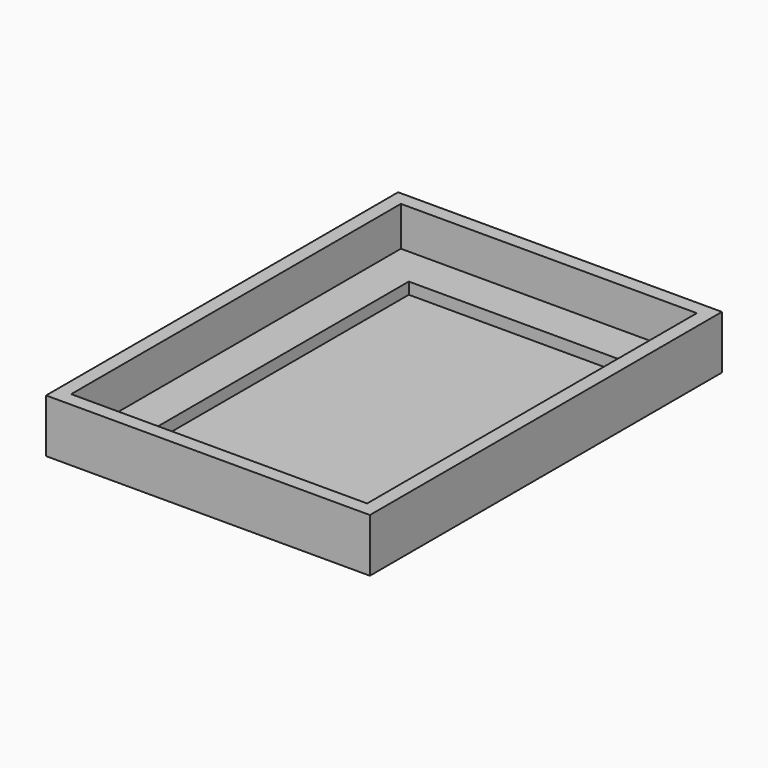
from build123d import *

# Parameters (mm, degrees)
F0_W     = 418
F0_H     = 568
F0_W_2   = 382.000006
F0_H_2   = 532.000006
F1_DEPTH = 69
F0_W_3   = 280
F0_H_3   = 430
F2_DEPTH = 18
F3_DEPTH = 3


with BuildPart() as f1:
    # F0 (on Top) → F1 (new body)
    with BuildSketch(Plane.XY):
        Rectangle(F0_W, F0_H)
        Rectangle(F0_W_2, F0_H_2, mode=Mode.SUBTRACT)
    extrude(amount=F1_DEPTH)

    # F0 (on Top) → F2 (join)
    with BuildSketch(Plane.XY):
        Rectangle(F0_W, F0_H)
        Rectangle(F0_W_2, F0_H_2, mode=Mode.SUBTRACT)
        Rectangle(F0_W_2, F0_H_2)
        Rectangle(F0_W_3, F0_H_3, mode=Mode.SUBTRACT)
    extrude(amount=F2_DEPTH)

    # F0 (on Top) → F3 (join)
    with BuildSketch(Plane.XY):
        Rectangle(F0_W_2, F0_H_2)
        Rectangle(F0_W_3, F0_H_3, mode=Mode.SUBTRACT)
        Rectangle(F0_W_3, F0_H_3)
    extrude(amount=F3_DEPTH)


solid = f1.part
